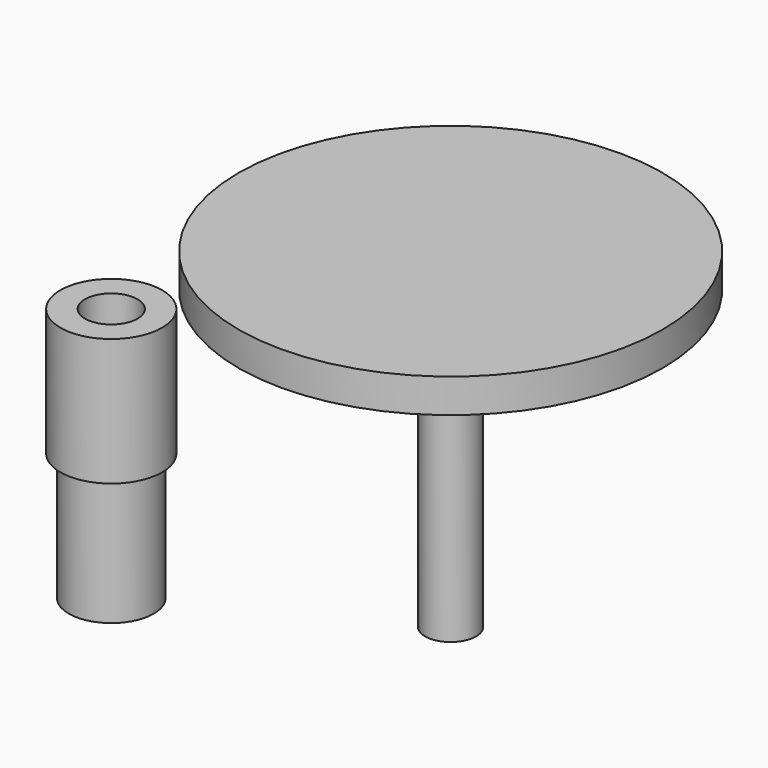
from build123d import *

# Parameters (mm, degrees)
CYLINDER005_R     = 5
CYLINDER005_DEPTH = 15
CYLINDER004_R     = 6
CYLINDER004_DEPTH = 15
CYLINDER001_R     = 3.1
CYLINDER001_DEPTH = 20
CYLINDER_R        = 6
CYLINDER_DEPTH    = 30
CYLINDER002_R     = 3
CYLINDER002_DEPTH = 35
CYLINDER003_R     = 25
CYLINDER003_DEPTH = 4


with BuildPart() as cylinder005:
    # Cylinder005 → Cylinder005 (new body)
    with BuildSketch(Plane(origin=(-20, 0, 0), x_dir=(1, 0, 0), z_dir=(0, 0, 1))):
        Circle(CYLINDER005_R)
    extrude(amount=CYLINDER005_DEPTH)


with BuildPart() as cut001:
    # Cylinder004 → Cylinder004 (new body)
    with BuildSketch(Plane(origin=(-20, 0, 0), x_dir=(1, 0, 0), z_dir=(0, 0, 1))):
        Circle(CYLINDER004_R)
    extrude(amount=CYLINDER004_DEPTH)

    # Cut001: cut Cylinder005
    add(cylinder005.part, mode=Mode.SUBTRACT)


with BuildPart() as cut001_1:
    # Cut001 placement: moved
    add(cut001.part.moved(Location((20, 0, 0))))


with BuildPart() as cylinder001:
    # Cylinder001 → Cylinder001 (new body)
    with BuildSketch(Plane.XY.offset(10)):
        Circle(CYLINDER001_R)
    extrude(amount=CYLINDER001_DEPTH)


with BuildPart() as cut002:
    # Cylinder → Cylinder (new body)
    with BuildSketch(Plane.XY):
        Circle(CYLINDER_R)
    extrude(amount=CYLINDER_DEPTH)

    # Cut: cut Cylinder001
    add(cylinder001.part, mode=Mode.SUBTRACT)

    # Cut002: cut Cut001
    add(cut001_1.part, mode=Mode.SUBTRACT)


with BuildPart() as cylinder002:
    # Cylinder002 → Cylinder002 (new body)
    with BuildSketch(Plane(origin=(40, 0, 50), x_dir=(1, 0, 0), z_dir=(0, 0, 1))):
        Circle(CYLINDER002_R)
    extrude(amount=CYLINDER002_DEPTH)


with BuildPart() as fusion:
    # Cylinder003 → Cylinder003 (new body)
    with BuildSketch(Plane(origin=(40, 0, 85), x_dir=(1, 0, 0), z_dir=(0, 0, 1))):
        Circle(CYLINDER003_R)
    extrude(amount=CYLINDER003_DEPTH)

    # Fusion: union Cylinder002
    add(cylinder002.part)


with BuildPart() as fusion_1:
    # Fusion placement: moved
    add(fusion.part.moved(Location((0, 0, -40))))


solid = Compound([cut002.part, fusion_1.part])
